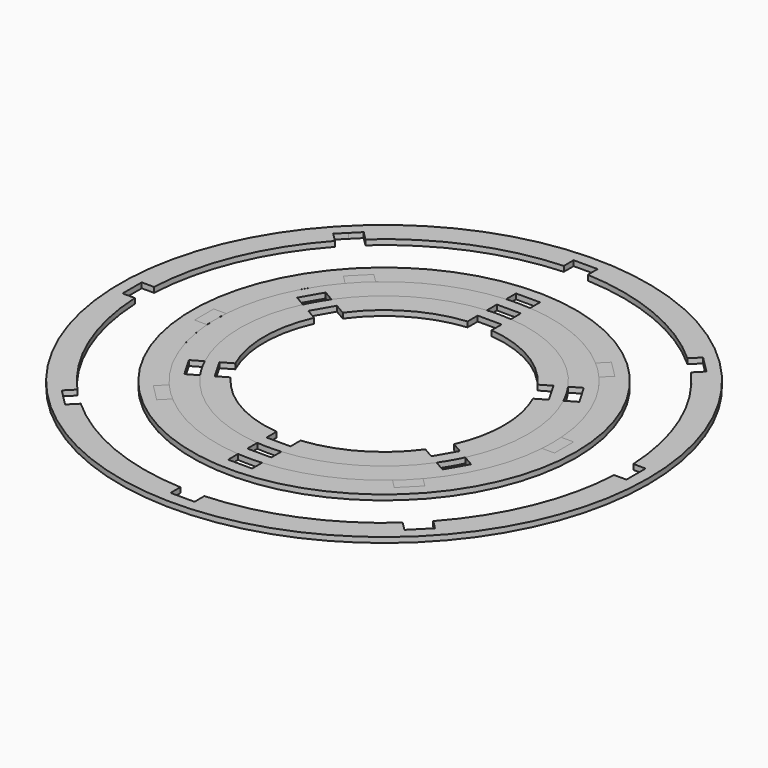
from build123d import *

# Parameters (mm, degrees)
F1_DEPTH = 5.55625
F0_R     = 203.2
F2_DEPTH = 5.55625
F3_R     = 203.2
F4_DEPTH = 5.55625
F3_R_2   = 279.4


with BuildPart() as f1:
    # F0 (on Top) → F1 (new body)
    with BuildSketch(Plane.XY):
        with BuildLine():
            ThreePointArc((137.8732013753, -64.9364330906), (148.7239656034, -33.2707387235), (152.4, 0))
            ThreePointArc((152.4, 0), (148.7239656034, 33.2707387235), (137.8732013753, 64.9364330906))
            ThreePointArc((137.8732013753, 64.9364330906), (131.9822715367, 76.2), (125.1732013753, 86.9334783468))
            ThreePointArc((125.1732013753, 86.9334783468), (76.2, 131.9822715367), (12.7, 151.8699114374))
            ThreePointArc((12.7, 151.8699114374), (0, 152.4), (-12.7, 151.8699114374))
            ThreePointArc((-12.7, 151.8699114374), (-76.2, 131.9822715367), (-125.1732013753, 86.9334783468))
            ThreePointArc((-125.1732013753, 86.9334783468), (-131.9822715367, 76.2), (-137.8732013753, 64.9364330906))
            ThreePointArc((-137.8732013753, 64.9364330906), (-152.4, 0), (-137.8732013753, -64.9364330906))
            ThreePointArc((-137.8732013753, -64.9364330906), (-131.9822715367, -76.2), (-125.1732013753, -86.9334783468))
            ThreePointArc((-125.1732013753, -86.9334783468), (-76.2, -131.9822715367), (-12.7, -151.8699114374))
            ThreePointArc((-12.7, -151.8699114374), (0, -152.4), (12.7, -151.8699114374))
            ThreePointArc((12.7, -151.8699114374), (76.2, -131.9822715367), (125.1732013753, -86.9334783468))
            ThreePointArc((125.1732013753, -86.9334783468), (131.9822715367, -76.2), (137.8732013753, -64.9364330906))
        make_face()
        with BuildLine():
            ThreePointArc((115.7839184165, 52.1831796282), (124.1643218459, 26.6874723522), (127, 0))
            ThreePointArc((127, 0), (124.1643218459, -26.6874723522), (115.7839184165, -52.1831796282))
            Line((115.7839184165, -52.1831796282), (127.3337489087, -58.8514773719))
            Line((127.3337489087, -58.8514773719), (114.6337489087, -80.8485226281))
            Line((114.6337489087, -80.8485226281), (103.0839184165, -74.1802248843))
            ThreePointArc((103.0839184165, -74.1802248843), (63.5, -109.9852262806), (12.7, -126.3634045125))
            Line((12.7, -126.3634045125), (12.7, -139.7))
            Line((12.7, -139.7), (-12.7, -139.7))
            Line((-12.7, -139.7), (-12.7, -126.3634045125))
            ThreePointArc((-12.7, -126.3634045125), (-63.5, -109.9852262806), (-103.0839184165, -74.1802248843))
            Line((-103.0839184165, -74.1802248843), (-114.6337489087, -80.8485226281))
            Line((-114.6337489087, -80.8485226281), (-127.3337489087, -58.8514773719))
            Line((-127.3337489087, -58.8514773719), (-115.7839184165, -52.1831796282))
            ThreePointArc((-115.7839184165, -52.1831796282), (-127, 0), (-115.7839184165, 52.1831796282))
            Line((-115.7839184165, 52.1831796282), (-127.3337489087, 58.8514773719))
            Line((-127.3337489087, 58.8514773719), (-114.6337489087, 80.8485226281))
            Line((-114.6337489087, 80.8485226281), (-103.0839184165, 74.1802248843))
            ThreePointArc((-103.0839184165, 74.1802248843), (-63.5, 109.9852262806), (-12.7, 126.3634045125))
            Line((-12.7, 126.3634045125), (-12.7, 139.7))
            Line((-12.7, 139.7), (12.7, 139.7))
            Line((12.7, 139.7), (12.7, 126.3634045125))
            ThreePointArc((12.7, 126.3634045125), (63.5, 109.9852262806), (103.0839184165, 74.1802248843))
            Line((103.0839184165, 74.1802248843), (114.6337489087, 80.8485226281))
            Line((114.6337489087, 80.8485226281), (127.3337489087, 58.8514773719))
            Line((127.3337489087, 58.8514773719), (115.7839184165, 52.1831796282))
        make_face(mode=Mode.SUBTRACT)
    extrude(amount=F1_DEPTH)


with BuildPart() as f1b:
    # F0 (on Top) → F1, piece 2 (new body)
    with BuildSketch(Plane.XY):
        Circle(F0_R)
        with BuildLine():
            ThreePointArc((159.9360101051, 77.6744016499), (173.276459158, 39.851081562), (177.8, 0))
            ThreePointArc((177.8, 0), (173.276459158, -39.851081562), (159.9360101051, -77.6744016499))
            Line((159.9360101051, -77.6744016499), (171.3278394209, -84.2514773719))
            Line((171.3278394209, -84.2514773719), (158.6278394209, -106.2485226281))
            Line((158.6278394209, -106.2485226281), (147.2360101051, -99.671446906))
            ThreePointArc((147.2360101051, -99.671446906), (88.9, -153.9793167929), (12.7, -177.3458485559))
            Line((12.7, -177.3458485559), (12.7, -190.5))
            Line((12.7, -190.5), (-12.7, -190.5))
            Line((-12.7, -190.5), (-12.7, -177.3458485559))
            ThreePointArc((-12.7, -177.3458485559), (-88.9, -153.9793167929), (-147.2360101051, -99.671446906))
            Line((-147.2360101051, -99.671446906), (-158.6278394209, -106.2485226281))
            Line((-158.6278394209, -106.2485226281), (-171.3278394209, -84.2514773719))
            Line((-171.3278394209, -84.2514773719), (-159.9360101051, -77.6744016499))
            ThreePointArc((-159.9360101051, -77.6744016499), (-177.8, 0), (-159.9360101051, 77.6744016499))
            Line((-159.9360101051, 77.6744016499), (-171.3278394209, 84.2514773719))
            Line((-171.3278394209, 84.2514773719), (-158.6278394209, 106.2485226281))
            Line((-158.6278394209, 106.2485226281), (-147.2360101051, 99.671446906))
            ThreePointArc((-147.2360101051, 99.671446906), (-88.9, 153.9793167929), (-12.7, 177.3458485559))
            Line((-12.7, 177.3458485559), (-12.7, 190.5))
            Line((-12.7, 190.5), (12.7, 190.5))
            Line((12.7, 190.5), (12.7, 177.3458485559))
            ThreePointArc((12.7, 177.3458485559), (88.9, 153.9793167929), (147.2360101051, 99.671446906))
            Line((147.2360101051, 99.671446906), (158.6278394209, 106.2485226281))
            Line((158.6278394209, 106.2485226281), (171.3278394209, 84.2514773719))
            Line((171.3278394209, 84.2514773719), (159.9360101051, 77.6744016499))
        make_face(mode=Mode.SUBTRACT)
    extrude(amount=F1_DEPTH)


with BuildPart() as f2:
    # F0 (on Top) → F2 (new body)
    with BuildSketch(Plane.XY):
        with BuildLine():
            ThreePointArc((159.9360101051, -77.6744016499), (173.276459158, -39.851081562), (177.8, 0))
            ThreePointArc((177.8, 0), (173.276459158, 39.851081562), (159.9360101051, 77.6744016499))
            ThreePointArc((159.9360101051, 77.6744016499), (153.9793167929, 88.9), (147.2360101051, 99.671446906))
            ThreePointArc((147.2360101051, 99.671446906), (88.9, 153.9793167929), (12.7, 177.3458485559))
            ThreePointArc((12.7, 177.3458485559), (0, 177.8), (-12.7, 177.3458485559))
            ThreePointArc((-12.7, 177.3458485559), (-88.9, 153.9793167929), (-147.2360101051, 99.671446906))
            ThreePointArc((-147.2360101051, 99.671446906), (-153.9793167929, 88.9), (-159.9360101051, 77.6744016499))
            ThreePointArc((-159.9360101051, 77.6744016499), (-177.8, 0), (-159.9360101051, -77.6744016499))
            ThreePointArc((-159.9360101051, -77.6744016499), (-153.9793167929, -88.9), (-147.2360101051, -99.671446906))
            ThreePointArc((-147.2360101051, -99.671446906), (-88.9, -153.9793167929), (-12.7, -177.3458485559))
            ThreePointArc((-12.7, -177.3458485559), (0, -177.8), (12.7, -177.3458485559))
            ThreePointArc((12.7, -177.3458485559), (88.9, -153.9793167929), (147.2360101051, -99.671446906))
            ThreePointArc((147.2360101051, -99.671446906), (153.9793167929, -88.9), (159.9360101051, -77.6744016499))
        make_face()
        with BuildLine():
            ThreePointArc((137.8732013753, 64.9364330906), (148.7239656034, 33.2707387235), (152.4, 0))
            ThreePointArc((152.4, 0), (148.7239656034, -33.2707387235), (137.8732013753, -64.9364330906))
            Line((137.8732013753, -64.9364330906), (148.9071464361, -71.3068842417))
            Line((148.9071464361, -71.3068842417), (149.3307941648, -71.5514773719))
            Line((149.3307941648, -71.5514773719), (136.6307941648, -93.5485226281))
            Line((136.6307941648, -93.5485226281), (125.1732013753, -86.9334783468))
            ThreePointArc((125.1732013753, -86.9334783468), (76.2, -131.9822715367), (12.7, -151.8699114374))
            Line((12.7, -151.8699114374), (12.7, -164.6108137396))
            Line((12.7, -164.6108137396), (12.7, -165.1))
            Line((12.7, -165.1), (-12.7, -165.1))
            Line((-12.7, -165.1), (-12.7, -151.8699114374))
            ThreePointArc((-12.7, -151.8699114374), (-76.2, -131.9822715367), (-125.1732013753, -86.9334783468))
            Line((-125.1732013753, -86.9334783468), (-136.2071464361, -93.3039294978))
            Line((-136.2071464361, -93.3039294978), (-136.6307941648, -93.5485226281))
            Line((-136.6307941648, -93.5485226281), (-149.3307941648, -71.5514773719))
            Line((-149.3307941648, -71.5514773719), (-137.8732013753, -64.9364330906))
            ThreePointArc((-137.8732013753, -64.9364330906), (-152.4, 0), (-137.8732013753, 64.9364330906))
            Line((-137.8732013753, 64.9364330906), (-148.9071464361, 71.3068842417))
            Line((-148.9071464361, 71.3068842417), (-149.3307941648, 71.5514773719))
            Line((-149.3307941648, 71.5514773719), (-136.6307941648, 93.5485226281))
            Line((-136.6307941648, 93.5485226281), (-125.1732013753, 86.9334783468))
            ThreePointArc((-125.1732013753, 86.9334783468), (-76.2, 131.9822715367), (-12.7, 151.8699114374))
            Line((-12.7, 151.8699114374), (-12.7, 164.6108137396))
            Line((-12.7, 164.6108137396), (-12.7, 165.1))
            Line((-12.7, 165.1), (12.7, 165.1))
            Line((12.7, 165.1), (12.7, 151.8699114374))
            ThreePointArc((12.7, 151.8699114374), (76.2, 131.9822715367), (125.1732013753, 86.9334783468))
            Line((125.1732013753, 86.9334783468), (136.2071464361, 93.3039294978))
            Line((136.2071464361, 93.3039294978), (136.6307941648, 93.5485226281))
            Line((136.6307941648, 93.5485226281), (149.3307941648, 71.5514773719))
            Line((149.3307941648, 71.5514773719), (137.8732013753, 64.9364330906))
        make_face(mode=Mode.SUBTRACT)
    extrude(amount=F2_DEPTH)


with BuildPart() as f4:
    # F3 (on Top) → F4 (new body)
    with BuildSketch(Plane.XY):
        Circle(F3_R)
        with BuildLine():
            ThreePointArc((134.3827082502, 116.4221960081), (164.2657808805, 68.0411142745), (177.3458485559, 12.7))
            Line((177.3458485559, 12.7), (190.5, 12.7))
            Line((190.5, 12.7), (190.5, 0))
            Line((190.5, 0), (190.5, -12.7))
            Line((190.5, -12.7), (177.3458485559, -12.7))
            ThreePointArc((177.3458485559, -12.7), (164.2657808805, -68.0411142745), (134.3827082502, -116.4221960081))
            Line((134.3827082502, -116.4221960081), (143.6840979371, -125.723585695))
            Line((143.6840979371, -125.723585695), (134.703841816, -134.703841816))
            Line((134.703841816, -134.703841816), (125.723585695, -143.6840979371))
            Line((125.723585695, -143.6840979371), (116.4221960081, -134.3827082502))
            ThreePointArc((116.4221960081, -134.3827082502), (68.0411142745, -164.2657808805), (12.7, -177.3458485559))
            Line((12.7, -177.3458485559), (12.7, -190.5))
            Line((12.7, -190.5), (0, -190.5))
            Line((0, -190.5), (-12.7, -190.5))
            Line((-12.7, -190.5), (-12.7, -177.3458485559))
            ThreePointArc((-12.7, -177.3458485559), (-68.0411142745, -164.2657808805), (-116.4221960081, -134.3827082502))
            Line((-116.4221960081, -134.3827082502), (-125.723585695, -143.6840979371))
            Line((-125.723585695, -143.6840979371), (-134.703841816, -134.703841816))
            Line((-134.703841816, -134.703841816), (-143.6840979371, -125.723585695))
            Line((-143.6840979371, -125.723585695), (-134.3827082502, -116.4221960081))
            ThreePointArc((-134.3827082502, -116.4221960081), (-164.2657808805, -68.0411142745), (-177.3458485559, -12.7))
            Line((-177.3458485559, -12.7), (-190.5, -12.7))
            Line((-190.5, -12.7), (-190.5, 0))
            Line((-190.5, 0), (-190.5, 12.7))
            Line((-190.5, 12.7), (-177.3458485559, 12.7))
            ThreePointArc((-177.3458485559, 12.7), (-164.2657808805, 68.0411142745), (-134.3827082502, 116.4221960081))
            Line((-134.3827082502, 116.4221960081), (-143.6840979371, 125.723585695))
            Line((-143.6840979371, 125.723585695), (-134.703841816, 134.703841816))
            Line((-134.703841816, 134.703841816), (-125.723585695, 143.6840979371))
            Line((-125.723585695, 143.6840979371), (-116.4221960081, 134.3827082502))
            ThreePointArc((-116.4221960081, 134.3827082502), (-68.0411142745, 164.2657808805), (-12.7, 177.3458485559))
            Line((-12.7, 177.3458485559), (-12.7, 190.5))
            Line((-12.7, 190.5), (0, 190.5))
            Line((0, 190.5), (12.7, 190.5))
            Line((12.7, 190.5), (12.7, 177.3458485559))
            ThreePointArc((12.7, 177.3458485559), (68.0411142745, 164.2657808805), (116.4221960081, 134.3827082502))
            Line((116.4221960081, 134.3827082502), (125.723585695, 143.6840979371))
            Line((125.723585695, 143.6840979371), (134.703841816, 134.703841816))
            Line((134.703841816, 134.703841816), (143.6840979371, 125.723585695))
            Line((143.6840979371, 125.723585695), (134.3827082502, 116.4221960081))
        make_face(mode=Mode.SUBTRACT)
    extrude(amount=F4_DEPTH)


with BuildPart() as f4b:
    # F3 (on Top) → F4, piece 2 (new body)
    with BuildSketch(Plane.XY):
        Circle(F3_R_2)
        with BuildLine():
            ThreePointArc((188.3607316473, 170.4002194051), (234.6654012579, 97.2015918207), (253.6823013141, 12.7))
            Line((253.6823013141, 12.7), (266.7, 12.7))
            Line((266.7, 12.7), (266.7, 0))
            Line((266.7, 0), (266.7, -12.7))
            Line((266.7, -12.7), (253.6823013141, -12.7))
            ThreePointArc((253.6823013141, -12.7), (234.6654012579, -97.2015918207), (188.3607316473, -170.4002194051))
            Line((188.3607316473, -170.4002194051), (197.5656346635, -179.6051224214))
            Line((197.5656346635, -179.6051224214), (188.5853785425, -188.5853785425))
            Line((188.5853785425, -188.5853785425), (179.6051224214, -197.5656346635))
            Line((179.6051224214, -197.5656346635), (170.4002194051, -188.3607316473))
            ThreePointArc((170.4002194051, -188.3607316473), (97.2015918207, -234.6654012579), (12.7, -253.6823013141))
            Line((12.7, -253.6823013141), (12.7, -266.7))
            Line((12.7, -266.7), (0, -266.7))
            Line((0, -266.7), (-12.7, -266.7))
            Line((-12.7, -266.7), (-12.7, -253.6823013141))
            ThreePointArc((-12.7, -253.6823013141), (-97.2015918207, -234.6654012579), (-170.4002194051, -188.3607316473))
            Line((-170.4002194051, -188.3607316473), (-179.6051224214, -197.5656346635))
            Line((-179.6051224214, -197.5656346635), (-188.5853785425, -188.5853785425))
            Line((-188.5853785425, -188.5853785425), (-197.5656346635, -179.6051224214))
            Line((-197.5656346635, -179.6051224214), (-188.3607316473, -170.4002194051))
            ThreePointArc((-188.3607316473, -170.4002194051), (-234.6654012579, -97.2015918207), (-253.6823013141, -12.7))
            Line((-253.6823013141, -12.7), (-266.7, -12.7))
            Line((-266.7, -12.7), (-266.7, 0))
            Line((-266.7, 0), (-266.7, 12.7))
            Line((-266.7, 12.7), (-253.6823013141, 12.7))
            ThreePointArc((-253.6823013141, 12.7), (-234.6654012579, 97.2015918207), (-188.3607316473, 170.4002194051))
            Line((-188.3607316473, 170.4002194051), (-197.5656346635, 179.6051224214))
            Line((-197.5656346635, 179.6051224214), (-188.5853785425, 188.5853785425))
            Line((-188.5853785425, 188.5853785425), (-179.6051224214, 197.5656346635))
            Line((-179.6051224214, 197.5656346635), (-170.4002194051, 188.3607316473))
            ThreePointArc((-170.4002194051, 188.3607316473), (-97.2015918207, 234.6654012579), (-12.7, 253.6823013141))
            Line((-12.7, 253.6823013141), (-12.7, 266.7))
            Line((-12.7, 266.7), (0, 266.7))
            Line((0, 266.7), (12.7, 266.7))
            Line((12.7, 266.7), (12.7, 253.6823013141))
            ThreePointArc((12.7, 253.6823013141), (97.2015918207, 234.6654012579), (170.4002194051, 188.3607316473))
            Line((170.4002194051, 188.3607316473), (179.6051224214, 197.5656346635))
            Line((179.6051224214, 197.5656346635), (188.5853785425, 188.5853785425))
            Line((188.5853785425, 188.5853785425), (197.5656346635, 179.6051224214))
            Line((197.5656346635, 179.6051224214), (188.3607316473, 170.4002194051))
        make_face(mode=Mode.SUBTRACT)
    extrude(amount=F4_DEPTH)


solid = Compound([f1.part, f1b.part, f2.part, f4.part, f4b.part])
